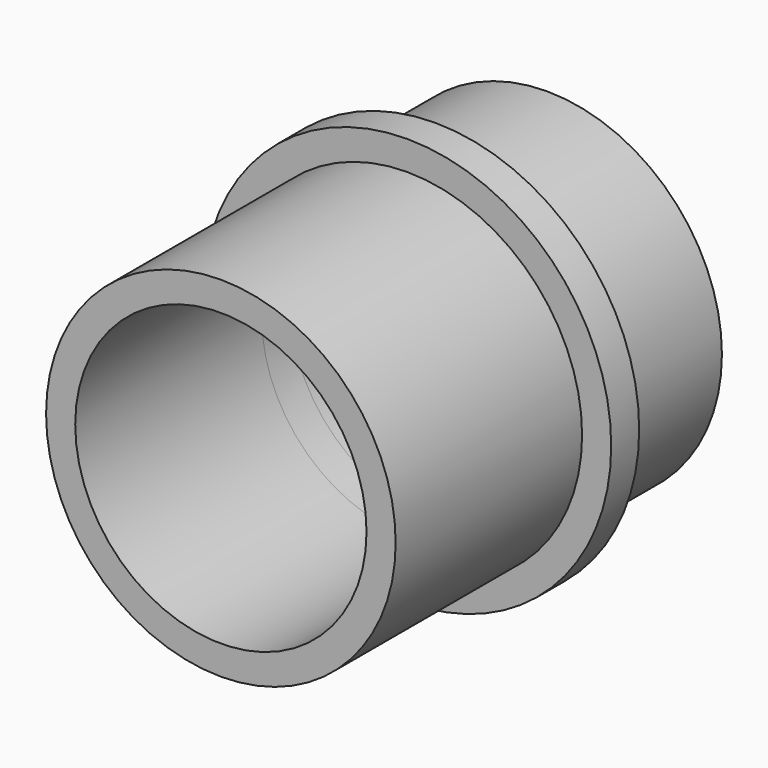
from build123d import *

# Parameters (mm, degrees)
F0_R     = 15
F0_R_2   = 12.5
F1_DEPTH = 35
F0_R_3   = 11
F2_DEPTH = 2
F3_DEPTH = 5
F0_R_4   = 17.5
F4_DEPTH = 3


with BuildPart() as f1:
    # F0 (on Front) → F1 (new body)
    with BuildSketch(Plane.XZ):
        Circle(F0_R)
        Circle(F0_R_2, mode=Mode.SUBTRACT)
    extrude(amount=F1_DEPTH)

    # F0 (on Front) → F2 (join)
    with BuildSketch(Plane.XZ):
        Circle(F0_R_2)
        Circle(F0_R_3, mode=Mode.SUBTRACT)
    extrude(amount=F2_DEPTH)

    # F0 (on Front) → F3 (join)
    with BuildSketch(Plane.XZ):
        Circle(F0_R_3)
    extrude(amount=F3_DEPTH)


with BuildPart() as f4:
    # F0 (on Front) → F4 (new body)
    with BuildSketch(Plane.XZ):
        Circle(F0_R_4)
        Circle(F0_R, mode=Mode.SUBTRACT)
        Circle(F0_R)
        Circle(F0_R_2, mode=Mode.SUBTRACT)
    extrude(amount=F4_DEPTH)


with BuildPart() as f4_1:
    # F5: moved
    add(f4.part.moved(Location((0, -12, 0))))


solid = Compound([f1.part, f4_1.part])
